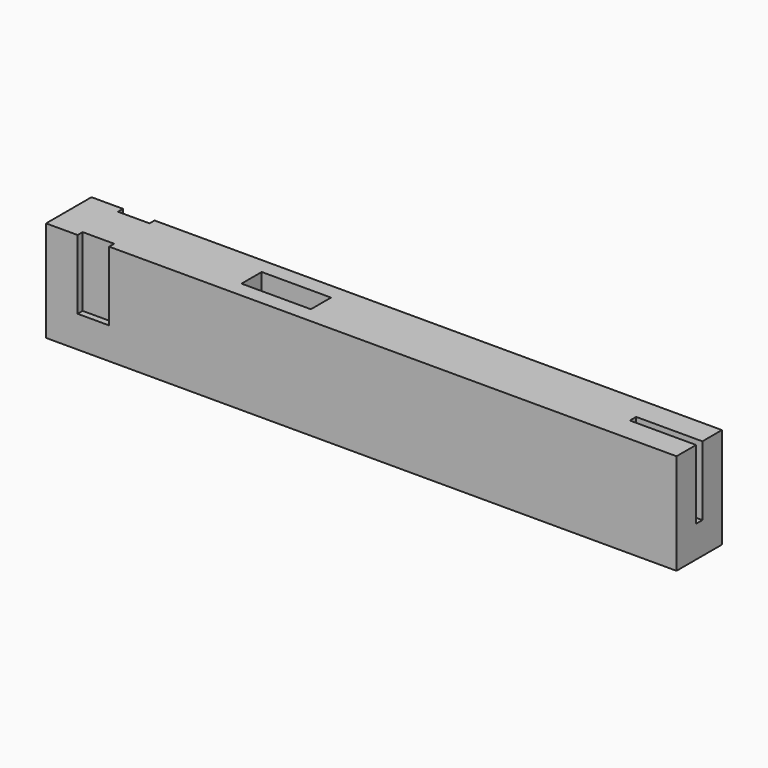
from build123d import *

# Parameters (mm, degrees)
SKETCH002_W  = 200
SKETCH002_H  = 18
PAD001_DEPTH = 10
PAD_DEPTH    = 22
SKETCH001_W  = 22
SKETCH001_H  = 8
POCKET_DEPTH = 6


with BuildPart() as base:
    # Sketch002 → Pad001 (new body)
    with BuildSketch(Plane.XY):
        Rectangle(SKETCH002_W, SKETCH002_H)
    extrude(amount=PAD001_DEPTH)


with BuildPart() as base_1:
    # Body001 placement: moved
    add(base.part.moved(Location((0, 0, -32))))


with BuildPart() as handle001:
    # Sketch → Pad (new body)
    with BuildSketch(Plane.XY):
        Polygon((-100, 9), (-90, 9), (-90, 7), (-80, 7), (-80, 9), (100, 9), (100, 1.25), (79, 1.25), (79, -1.25), (100, -1.25), (100, -9), (-80, -9), (-80, -7), (-90, -7), (-90, -9), (-100, -9), align=None)
    extrude(amount=PAD_DEPTH)

    # Sketch001 (on Face18 of Pad) → Pocket (cut)
    with BuildSketch(Plane.XY.offset(22)):
        with Locations((-31, 0)):
            Rectangle(SKETCH001_W, SKETCH001_H)
    extrude(amount=-POCKET_DEPTH, mode=Mode.SUBTRACT)


with BuildPart() as handle001_1:
    # Body placement: moved
    add(handle001.part.moved(Location((0, 0, -22))))

    # Fusion: union Base
    add(base_1.part)


solid = handle001_1.part
